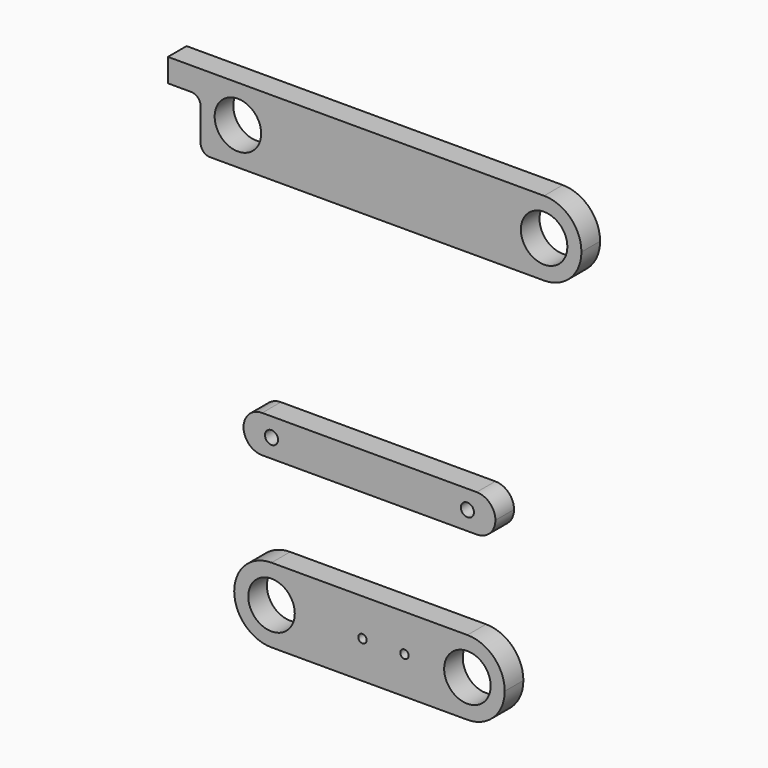
from build123d import *

# Parameters (mm, degrees)
F0_R     = 4.985
F0_R_2   = 1.4
F0_R_3   = 0.9
F1_DEPTH = 5


with BuildPart() as f1:
    # F0 (on Front) → F1 (new body)
    with BuildSketch(Plane.XZ):
        with BuildLine():
            Line((-34.210607, 126.922728), (37.444393, 126.922728))
            ThreePointArc((37.444393, 126.922728), (43.101247, 129.265874), (45.444393, 134.922728))
            ThreePointArc((45.444393, 134.922728), (43.101247, 140.579582), (37.444393, 142.922728))
            Line((37.444393, 142.922728), (-32.210607, 142.922728))
            Line((-32.210607, 142.922728), (-43.210607, 142.922728))
            Line((-43.210607, 142.922728), (-43.210607, 137.922728))
            Line((-43.210607, 137.922728), (-38.210607, 137.922728))
            ThreePointArc((-38.210607, 137.922728), (-36.796394, 137.336942), (-36.210607, 135.922728))
            Line((-36.210607, 135.922728), (-36.210607, 128.922728))
            ThreePointArc((-36.210607, 128.922728), (-35.624821, 127.508514), (-34.210607, 126.922728))
        make_face()
        with Locations((-28.210607, 134.922728)):
            Circle(F0_R, mode=Mode.SUBTRACT)
        with Locations((37.444393, 134.922728)):
            Circle(F0_R, mode=Mode.SUBTRACT)
        with BuildLine():
            Line((-23, 74.290269), (23, 74.290269))
            ThreePointArc((23, 74.290269), (25.828427, 75.461842), (27, 78.290269))
            ThreePointArc((27, 78.290269), (25.828427, 81.118696), (23, 82.290269))
            Line((23, 82.290269), (-23, 82.290269))
            ThreePointArc((-23, 82.290269), (-25.828427, 81.118696), (-27, 78.290269))
            ThreePointArc((-27, 78.290269), (-25.828427, 75.461842), (-23, 74.290269))
        make_face()
        with Locations((-21, 78.290269)):
            Circle(F0_R_2, mode=Mode.SUBTRACT)
        with BuildLine():
            ThreePointArc((22.4, 78.290269), (21, 76.890269), (19.6, 78.290269))
            ThreePointArc((19.6, 78.290269), (21, 79.690269), (22.4, 78.290269))
        make_face(mode=Mode.SUBTRACT)
        with BuildLine():
            Line((-21, 38.670482), (21, 38.670482))
            ThreePointArc((21, 38.670482), (26.656854, 41.013627), (29, 46.670482))
            ThreePointArc((29, 46.670482), (26.656854, 52.327336), (21, 54.670482))
            Line((21, 54.670482), (-21, 54.670482))
            ThreePointArc((-21, 54.670482), (-26.656854, 52.327336), (-29, 46.670482))
            ThreePointArc((-29, 46.670482), (-26.656854, 41.013627), (-21, 38.670482))
        make_face()
        with Locations((-21, 46.670482)):
            Circle(F0_R, mode=Mode.SUBTRACT)
        with Locations((-1.5, 46.670482)):
            Circle(F0_R_3, mode=Mode.SUBTRACT)
        with Locations((7.5, 46.670482)):
            Circle(F0_R_3, mode=Mode.SUBTRACT)
        with Locations((21, 46.670482)):
            Circle(F0_R, mode=Mode.SUBTRACT)
    extrude(amount=F1_DEPTH)


solid = f1.part
